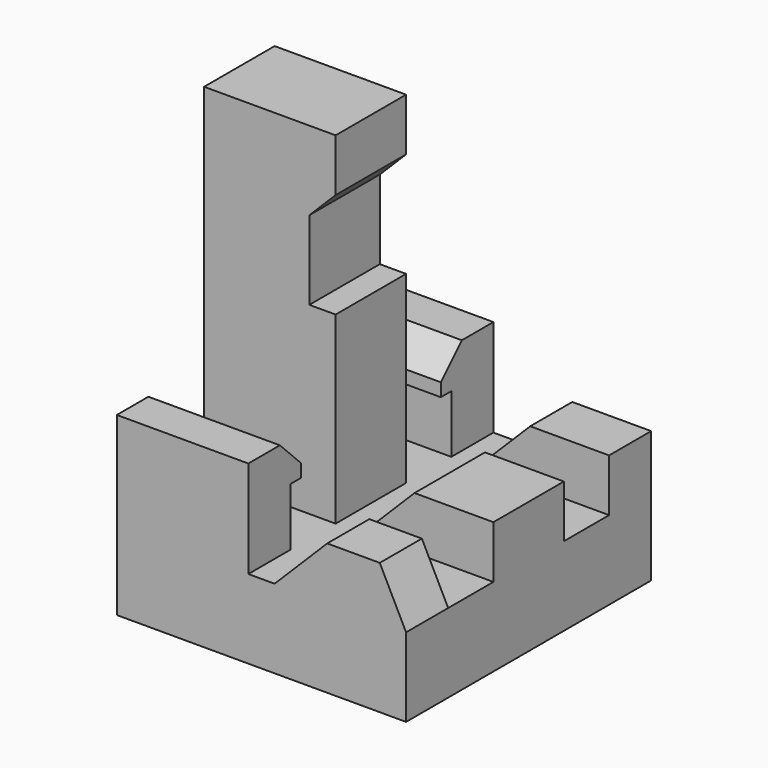
from build123d import *

# Parameters (mm, degrees)
BOX035_W         = 5
BOX035_H         = 2
BOX035_DEPTH     = 5
CHAMFER008_SIZE  = 2
BOX036_W         = 5
BOX036_H         = 3.35
BOX036_DEPTH     = 5
CHAMFER009_SIZE  = 2
BOX030_W         = 5
BOX030_H         = 2.5
BOX030_DEPTH     = 1.5
CHAMFER006_SIZE  = 1
BOX026_W         = 11
BOX026_H         = 11.65
BOX026_DEPTH     = 3
BOX028_W         = 5
BOX028_H         = 2
BOX028_DEPTH     = 6
BOX033_W         = 5
BOX033_H         = 3.35
BOX033_DEPTH     = 3
CHAMFER005_SIZE  = 1
BOX027_W         = 5
BOX027_H         = 2
BOX027_DEPTH     = 6
BOX025_W         = 5
BOX025_H         = 3.35
BOX025_DEPTH     = 10
BOX032_W         = 4
BOX032_H         = 3.35
BOX032_DEPTH     = 3
BOX031_W         = 5
BOX031_H         = 2.5
BOX031_DEPTH     = 1.5
CHAMFER007_SIZE  = 1
BOX034_W         = 5
BOX034_H         = 2
BOX034_DEPTH     = 5
CHAMFER010_SIZE  = 2
CHAMFER011_SIZE2 = 2
CHAMFER011_SIZE  = 1


with BuildPart() as chamfer008:
    # Box035 → Box035 (new body)
    with BuildSketch(Plane(origin=(-90, 4.5, 0), x_dir=(1, 0, 0), z_dir=(0, 0, 1))):
        with Locations((2.5, 1)):
            Rectangle(BOX035_W, BOX035_H)
    extrude(amount=BOX035_DEPTH)

    # Chamfer008
    chamfer008_edges = [chamfer008.edges().sort_by_distance(p)[0] for p in [
        (-90, 5.5, 5),
    ]]
    chamfer(chamfer008_edges, length=CHAMFER008_SIZE)


with BuildPart() as chamfer009:
    # Box036 → Box036 (new body)
    with BuildSketch(Plane(origin=(-90, -1, 0), x_dir=(1, 0, 0), z_dir=(0, 0, 1))):
        with Locations((2.5, 1.675)):
            Rectangle(BOX036_W, BOX036_H)
    extrude(amount=BOX036_DEPTH)

    # Chamfer009
    chamfer009_edges = [chamfer009.edges().sort_by_distance(p)[0] for p in [
        (-90, 0.675, 5),
    ]]
    chamfer(chamfer009_edges, length=CHAMFER009_SIZE)


with BuildPart() as chamfer006:
    # Box030 → Box030 (new body)
    with BuildSketch(Plane(origin=(-96, 4, 5.2), x_dir=(1, 0, 0), z_dir=(0, 0, 1))):
        with Locations((2.5, 1.25)):
            Rectangle(BOX030_W, BOX030_H)
    extrude(amount=BOX030_DEPTH)

    # Chamfer006
    chamfer006_edges = [chamfer006.edges().sort_by_distance(p)[0] for p in [
        (-93.5, 4, 6.7),
    ]]
    chamfer(chamfer006_edges, length=CHAMFER006_SIZE)


with BuildPart() as cube024:
    # Box026 → Box026 (new body)
    with BuildSketch(Plane(origin=(-96, -5.15, 0), x_dir=(1, 0, 0), z_dir=(0, 0, 1))):
        with Locations((5.5, 5.825)):
            Rectangle(BOX026_W, BOX026_H)
    extrude(amount=BOX026_DEPTH)


with BuildPart() as cube026:
    # Box028 → Box028 (new body)
    with BuildSketch(Plane(origin=(-96, 4.5, 0), x_dir=(1, 0, 0), z_dir=(0, 0, 1))):
        with Locations((2.5, 1)):
            Rectangle(BOX028_W, BOX028_H)
    extrude(amount=BOX028_DEPTH)


with BuildPart() as chamfer005:
    # Box033 → Box033 (new body)
    with BuildSketch(Plane(origin=(-96, 0, 13), x_dir=(1, 0, 0), z_dir=(0, 0, 1))):
        with Locations((2.5, 1.675)):
            Rectangle(BOX033_W, BOX033_H)
    extrude(amount=BOX033_DEPTH)

    # Chamfer005
    chamfer005_edges = [chamfer005.edges().sort_by_distance(p)[0] for p in [
        (-91, 1.675, 13),
    ]]
    chamfer(chamfer005_edges, length=CHAMFER005_SIZE)


with BuildPart() as chamfer005_1:
    # Chamfer005 placement: moved
    add(chamfer005.part.moved(Location((0, -1, 0))))


with BuildPart() as cube025:
    # Box027 → Box027 (new body)
    with BuildSketch(Plane(origin=(-96, -5.15, 0), x_dir=(1, 0, 0), z_dir=(0, 0, 1))):
        with Locations((2.5, 1)):
            Rectangle(BOX027_W, BOX027_H)
    extrude(amount=BOX027_DEPTH)


with BuildPart() as cube023:
    # Box025 → Box025 (new body)
    with BuildSketch(Plane(origin=(-96, -1, 0), x_dir=(1, 0, 0), z_dir=(0, 0, 1))):
        with Locations((2.5, 1.675)):
            Rectangle(BOX025_W, BOX025_H)
    extrude(amount=BOX025_DEPTH)


with BuildPart() as cube030:
    # Box032 → Box032 (new body)
    with BuildSketch(Plane(origin=(-96, -1, 10), x_dir=(1, 0, 0), z_dir=(0, 0, 1))):
        with Locations((2, 1.675)):
            Rectangle(BOX032_W, BOX032_H)
    extrude(amount=BOX032_DEPTH)


with BuildPart() as chamfer007:
    # Box031 → Box031 (new body)
    with BuildSketch(Plane(origin=(-96, -5.15, 5.2), x_dir=(1, 0, 0), z_dir=(0, 0, 1))):
        with Locations((2.5, 1.25)):
            Rectangle(BOX031_W, BOX031_H)
    extrude(amount=BOX031_DEPTH)

    # Chamfer007
    chamfer007_edges = [chamfer007.edges().sort_by_distance(p)[0] for p in [
        (-93.5, -2.65, 6.7),
    ]]
    chamfer(chamfer007_edges, length=CHAMFER007_SIZE)


with BuildPart() as fusion010004008:
    # Box034 → Box034 (new body)
    with BuildSketch(Plane(origin=(-90, -5.15, 0), x_dir=(1, 0, 0), z_dir=(0, 0, 1))):
        with Locations((2.5, 1)):
            Rectangle(BOX034_W, BOX034_H)
    extrude(amount=BOX034_DEPTH)

    # Chamfer010
    chamfer010_edges = [fusion010004008.edges().sort_by_distance(p)[0] for p in [
        (-90, -4.15, 5),
    ]]
    chamfer(chamfer010_edges, length=CHAMFER010_SIZE)

    # Chamfer011
    chamfer011_edges = [fusion010004008.edges().sort_by_distance(p)[0] for p in [
        (-85, -4.15, 5),
    ]]
    chamfer011_side = fusion010004008.faces().sort_by_distance((-86.5, -4.15, 5))[0]
    chamfer(chamfer011_edges, length=CHAMFER011_SIZE, length2=CHAMFER011_SIZE2, reference=chamfer011_side)

    # Fusion010004008: union Chamfer008, Chamfer009, Chamfer006, Cube024, Cube026, Chamfer005, Cube025, Cube023, Cube030, Chamfer007
    add(chamfer008.part)
    add(chamfer009.part)
    add(chamfer006.part)
    add(cube024.part)
    add(cube026.part)
    add(chamfer005_1.part)
    add(cube025.part)
    add(cube023.part)
    add(cube030.part)
    add(chamfer007.part)


solid = fusion010004008.part
